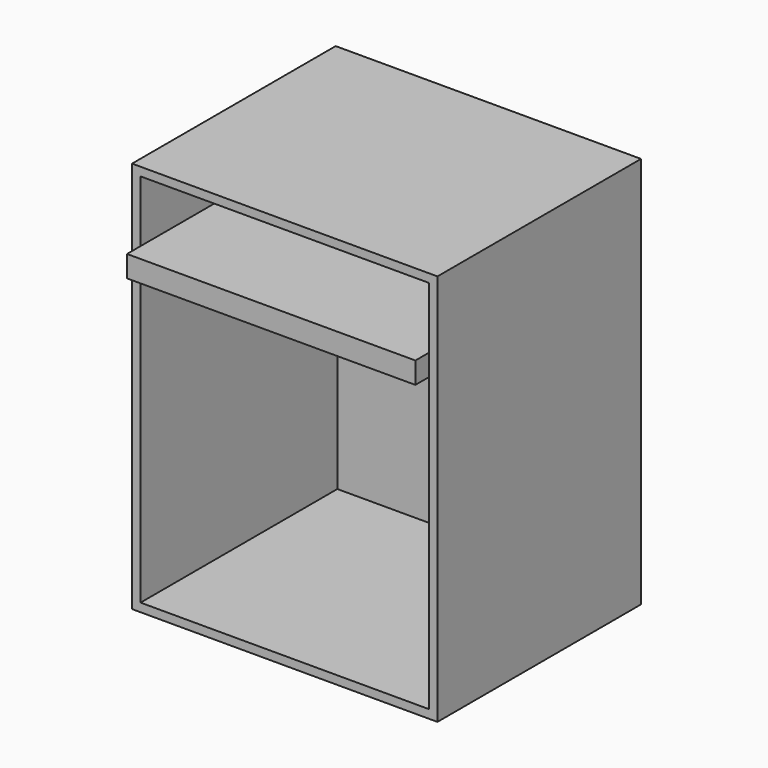
from build123d import *

# Parameters (mm, degrees)
F0_W     = 91.437164
F0_H     = 117.438275
F1_DEPTH = 76.2
F2_T     = -2.54
F3_W     = 86.357164
F3_H     = 6.434369
F4_DEPTH = 78.74


with BuildPart() as f1:
    # F0 (on Front) → F1 (new body)
    with BuildSketch(Plane.XZ):
        with Locations((2e-06, -5.200221)):
            Rectangle(F0_W, F0_H)
    extrude(amount=F1_DEPTH)

    # F2
    f2_openings = [f1.faces().sort_by_distance(p)[0] for p in [
        (2e-06, -76.2, -5.20022),
    ]]
    offset(amount=F2_T, openings=f2_openings)

    # F3 (on face) → F4 (join)
    with BuildSketch(Plane.XZ.offset(2.54)):
        with Locations((2e-06, 29.374299)):
            Rectangle(F3_W, F3_H)
    extrude(amount=F4_DEPTH)


solid = f1.part
